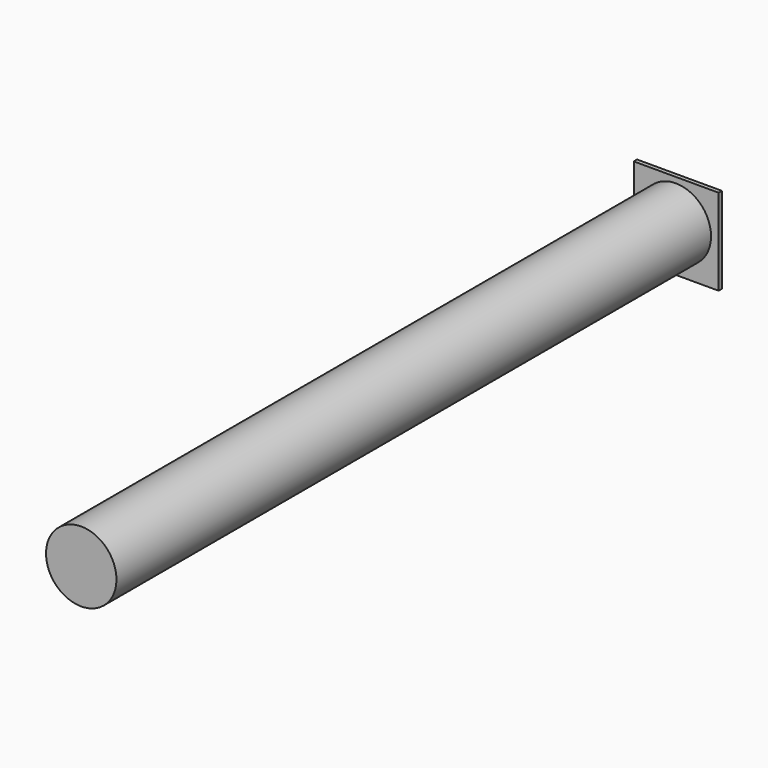
from build123d import *

# Parameters (mm, degrees)
F0_R     = 22.274001
F1_DEPTH = 470
F2_W     = 53.660006
F2_H     = 54.572947
F3_DEPTH = 2.612809


with BuildPart() as f1:
    # F0 (on Front) → F1 (new body)
    with BuildSketch(Plane.XZ):
        Circle(F0_R)
    extrude(amount=F1_DEPTH)

    # F2 (on Front) → F3 (join)
    with BuildSketch(Plane.XZ):
        with Locations((0.242794, -1.471386)):
            Rectangle(F2_W, F2_H)
    extrude(amount=-F3_DEPTH)


solid = f1.part
